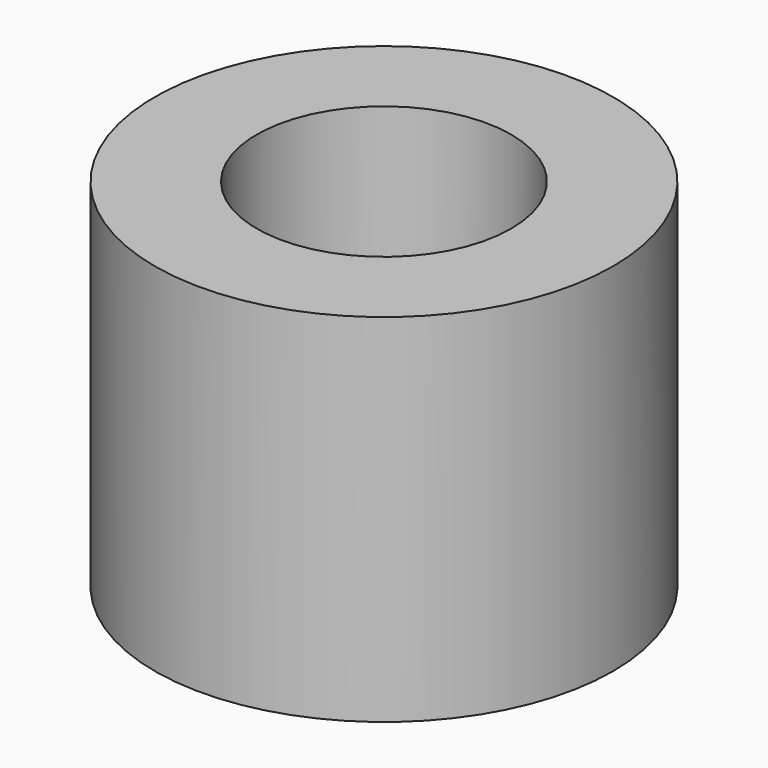
from build123d import *

# Parameters (mm, degrees)
SKETCH_R   = 4.5
SKETCH_R_2 = 2.5
PAD_DEPTH  = 7


with BuildPart() as part:
    # Sketch → Pad (new body)
    with BuildSketch(Plane.XY):
        Circle(SKETCH_R)
        Circle(SKETCH_R_2, mode=Mode.SUBTRACT)
    extrude(amount=PAD_DEPTH)


solid = part.part
